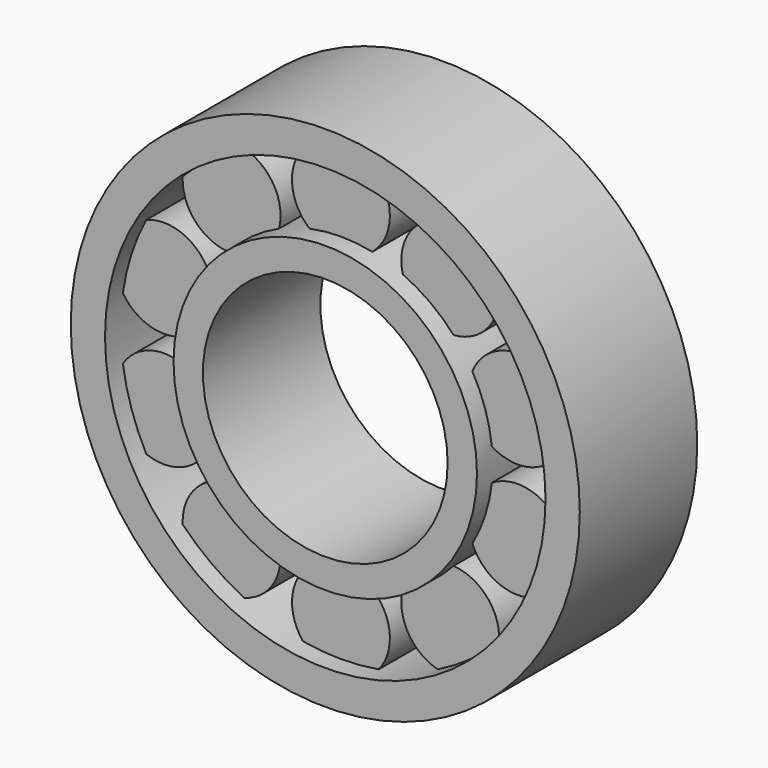
from build123d import *

# Parameters (mm, degrees)
F0_R     = 15.5
F0_R_2   = 12.5
F1_DEPTH = 15
F2_R     = 26
F2_R_2   = 22.5
F3_DEPTH = 15
F4_R     = 39.5
F5_DEPTH = 25
F8_R     = 5
F9_DEPTH = 11


with BuildPart() as f1:
    # F0 (on Front) → F1 (new body)
    with BuildSketch(Plane.XZ):
        Circle(F0_R)
        Circle(F0_R_2, mode=Mode.SUBTRACT)
    extrude(amount=F1_DEPTH)



with BuildPart() as f3:
    # F2 (on Front) → F3 (new body)
    with BuildSketch(Plane.XZ):
        Circle(F2_R)
        Circle(F2_R_2, mode=Mode.SUBTRACT)
    extrude(amount=F3_DEPTH)


with BuildPart() as f5:
    # F4 (on Front) → F5 (new body)
    with BuildSketch(Plane.XZ):
        with Locations((-73.8302841783, -37.6648977399)):
            Circle(F4_R)
    extrude(amount=F5_DEPTH)


with BuildPart() as f1_1:
    add(f1.part)

    add(f3.part)  # F9 merges F3
    # F8 (on offset) → F9 (join)
    with BuildSketch(Plane.XZ.offset(2)):
        with Locations((-11.1679197936, 15.3713228931)):
            Circle(F8_R)
        with Locations((0, 19)):
            Circle(F8_R)
        with Locations((11.1679197936, 15.3713228931)):
            Circle(F8_R)
        with Locations((18.0700738096, 5.8713228931)):
            Circle(F8_R)
        with Locations((18.0700738096, -5.8713228931)):
            Circle(F8_R)
        with Locations((11.1679197936, -15.3713228931)):
            Circle(F8_R)
        with Locations((0, -19)):
            Circle(F8_R)
        with Locations((-11.1679197936, -15.3713228931)):
            Circle(F8_R)
        with Locations((-18.0700738096, -5.8713228931)):
            Circle(F8_R)
        with Locations((-18.0700738096, 5.8713228931)):
            Circle(F8_R)
    extrude(amount=F9_DEPTH)


solid = f1_1.part
